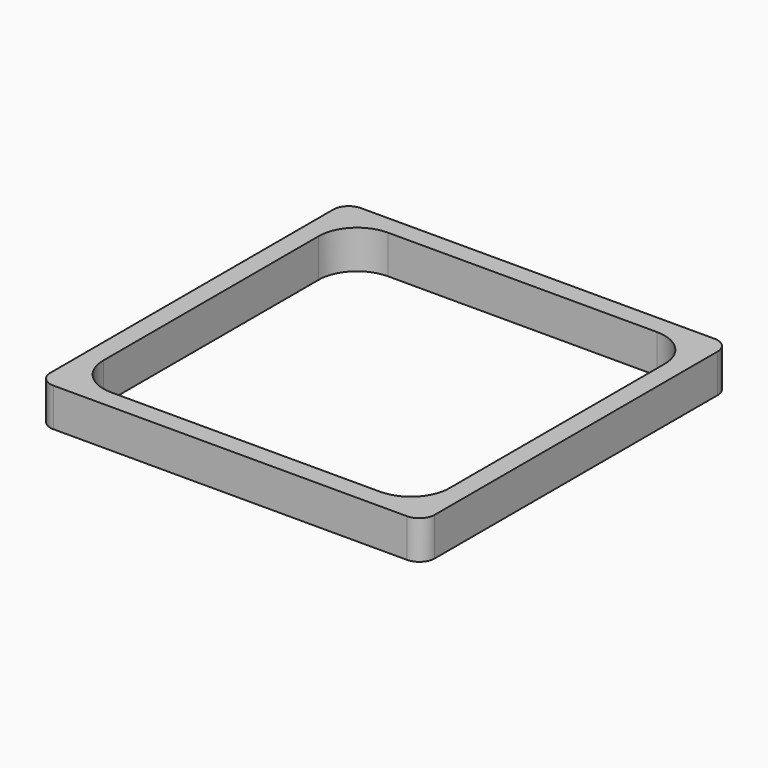
from build123d import *

# Parameters (mm, degrees)
F0_W     = 50
F0_H     = 50
F1_DEPTH = 5
F2_R     = 2


with BuildPart() as f1:
    # F0 (on Top) → F1 (new body)
    with BuildSketch(Plane.XY):
        Rectangle(F0_W, F0_H)
        with BuildLine():
            ThreePointArc((-22.5, 17.5), (-21.035534, 21.035534), (-17.5, 22.5))
            Line((-17.5, 22.5), (17.5, 22.5))
            ThreePointArc((17.5, 22.5), (21.035534, 21.035534), (22.5, 17.5))
            Line((22.5, 17.5), (22.5, -17.5))
            ThreePointArc((22.5, -17.5), (21.035534, -21.035534), (17.5, -22.5))
            Line((17.5, -22.5), (-17.5, -22.5))
            ThreePointArc((-17.5, -22.5), (-21.035534, -21.035534), (-22.5, -17.5))
            Line((-22.5, -17.5), (-22.5, 17.5))
        make_face(mode=Mode.SUBTRACT)
    extrude(amount=F1_DEPTH)

    # F2
    f2_edges = [f1.edges().sort_by_distance(p)[0] for p in [
        (-25, -25, 2.5),
        (25, -25, 2.5),
        (25, 25, 2.5),
        (-25, 25, 2.5),
    ]]
    fillet(f2_edges, radius=F2_R)


solid = f1.part
